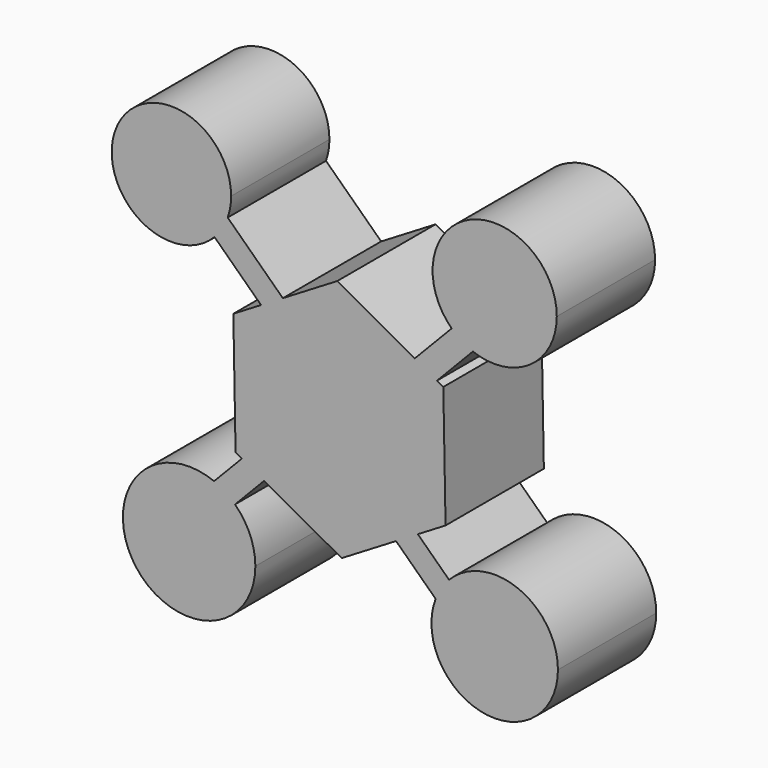
from build123d import *

# Parameters (mm, degrees)
F1_DEPTH = 25


with BuildPart() as f1:
    # F0 (on Front) → F1 (new body)
    with BuildSketch(Plane.XZ):
        Polygon((-3.6047625217, 1.0570984669), (0, -2.4078239221), (3.464922389, 1.1969385996), (-11.515979737, 15.5966841781), (-15.9519963441, 12.9253440602), align=None)
        Polygon((-3.464922389, -6.0125864438), (0, -2.4078239221), (-3.6047625217, 1.0570984669), (-19.8503045149, -15.8440942143), (-15.3221144811, -18.3483206589), align=None)
        Polygon((3.464922389, 1.1969385996), (0, -2.4078239221), (3.6047625217, -5.8727463111), (19.8503045149, 11.0284463701), (15.3221144811, 13.5326728147), align=None)
        Polygon((3.6047625217, -5.8727463111), (0, -2.4078239221), (-3.464922389, -6.0125864438), (11.515979737, -20.4123320224), (15.9519963441, -17.7409919044), align=None)
        Polygon((-11.515979737, 15.5966841781), (3.464922389, 1.1969385996), (15.3221144811, 13.5326728147), (-0.4546866072, 22.2577223822), align=None)
        Polygon((-19.8503045149, -15.8440942143), (-3.6047625217, 1.0570984669), (-15.9519963441, 12.9253440602), (-21.5883330014, 9.5311790774), (-21.1336463941, -15.1343672269), align=None)
        Polygon((19.8503045149, 11.0284463701), (3.6047625217, -5.8727463111), (15.9519963441, -17.7409919044), (21.5883330014, -14.3468269216), (21.1336463941, 10.3187193827), align=None)
        Polygon((11.515979737, -20.4123320224), (-3.464922389, -6.0125864438), (-15.3221144811, -18.3483206589), (0.4546866072, -27.0733702264), align=None)
        with BuildLine():
            Line((22.8301708876, 21.3437454179), (15.3221144811, 13.5326728147))
            Line((15.3221144811, 13.5326728147), (19.8503045149, 11.0284463701))
            Line((19.8503045149, 11.0284463701), (27.1497799567, 18.6225199298))
            ThreePointArc((27.1497799567, 18.6225199298), (24.8510842543, 19.7626601145), (22.8301708876, 21.3437454179))
        make_face()
        with BuildLine():
            Line((-15.9519963441, 12.9253440602), (-11.515979737, 15.5966841781))
            Line((-11.515979737, 15.5966841781), (-22.7377914526, 26.3831663457))
            ThreePointArc((-22.7377914526, 26.3831663457), (-23.8506538485, 24.0646862159), (-25.4265858042, 22.0323842464))
            Line((-25.4265858042, 22.0323842464), (-15.9519963441, 12.9253440602))
        make_face()
        with BuildLine():
            Line((-15.3221144811, -18.3483206589), (-19.8503045149, -15.8440942143))
            Line((-19.8503045149, -15.8440942143), (-25.5164120913, -21.7388791308))
            ThreePointArc((-25.5164120913, -21.7388791308), (-23.2486379111, -22.9210064368), (-21.2450357109, -24.5102839214))
            Line((-21.2450357109, -24.5102839214), (-15.3221144811, -18.3483206589))
        make_face()
        with BuildLine():
            Line((22.3086725412, -23.8510725387), (15.9519963441, -17.7409919044))
            Line((15.9519963441, -17.7409919044), (11.515979737, -20.4123320224))
            Line((11.515979737, -20.4123320224), (19.572802502, -28.156605165))
            ThreePointArc((19.572802502, -28.156605165), (20.7252240198, -25.866894835), (22.3086725412, -23.8510725387))
        make_face()
        with BuildLine():
            ThreePointArc((44.2184696223, 30.4518900812), (26.6351729101, 42.0753321486), (22.8301708876, 21.3437454179))
            ThreePointArc((22.8301708876, 21.3437454179), (24.8510842543, 19.7626601145), (27.1497799567, 18.6225199298))
            ThreePointArc((27.1497799567, 18.6225199298), (38.7812636853, 20.0683193432), (44.2184696223, 30.4518900812))
        make_face()
        with BuildLine():
            Line((-29.2176456857, 32.6116465505), (-22.7377914526, 26.3831663457))
            ThreePointArc((-22.7377914526, 26.3831663457), (-22.2129285463, 28.3875102161), (-22.0362616439, 30.4518900812))
            ThreePointArc((-22.0362616439, 30.4518900812), (-45.4561166366, 34.9901269749), (-25.4265858042, 22.0323842464))
            Line((-25.4265858042, 22.0323842464), (-34.185892847, 30.4518900812))
            Line((-34.185892847, 30.4518900812), (-29.2176456857, 32.6116465505))
        make_face()
        with BuildLine():
            ThreePointArc((-25.4265858042, 22.0323842464), (-23.8506538485, 24.0646862159), (-22.7377914526, 26.3831663457))
            Line((-22.7377914526, 26.3831663457), (-29.2176456857, 32.6116465505))
            Line((-29.2176456857, 32.6116465505), (-34.185892847, 30.4518900812))
            Line((-34.185892847, 30.4518900812), (-25.4265858042, 22.0323842464))
        make_face()
        with BuildLine():
            Line((-34.1880838364, -30.7605291991), (-25.5164120913, -21.7388791308))
            ThreePointArc((-25.5164120913, -21.7388791308), (-41.7606868501, -41.7523739668), (-17.1078598825, -34.2254515881))
            ThreePointArc((-17.1078598825, -34.2254515881), (-18.1852212928, -28.9457568377), (-21.2450357109, -24.5102839214))
            Line((-21.2450357109, -24.5102839214), (-30.5833213146, -34.2254515881))
            Line((-30.5833213146, -34.2254515881), (-34.1880838364, -30.7605291991))
        make_face()
        with BuildLine():
            ThreePointArc((-21.2450357109, -24.5102839214), (-23.2486379111, -22.9210064368), (-25.5164120913, -21.7388791308))
            Line((-25.5164120913, -21.7388791308), (-34.1880838364, -30.7605291991))
            Line((-34.1880838364, -30.7605291991), (-30.5833213146, -34.2254515881))
            Line((-30.5833213146, -34.2254515881), (-21.2450357109, -24.5102839214))
        make_face()
        with BuildLine():
            ThreePointArc((44.4517230245, -32.7675244671), (36.3910799417, -20.832096116), (22.3086725412, -23.8510725387))
            Line((22.3086725412, -23.8510725387), (31.5849818289, -32.7675244671))
            Line((31.5849818289, -32.7675244671), (28.1200594399, -36.3722869888))
            Line((28.1200594399, -36.3722869888), (19.572802502, -28.156605165))
            ThreePointArc((19.572802502, -28.156605165), (29.2402615472, -45.4188214676), (44.4517230245, -32.7675244671))
        make_face()
        with BuildLine():
            Line((31.5849818289, -32.7675244671), (22.3086725412, -23.8510725387))
            ThreePointArc((22.3086725412, -23.8510725387), (20.7252240198, -25.866894835), (19.572802502, -28.156605165))
            Line((19.572802502, -28.156605165), (28.1200594399, -36.3722869888))
            Line((28.1200594399, -36.3722869888), (31.5849818289, -32.7675244671))
        make_face()
    extrude(amount=F1_DEPTH)


solid = f1.part
